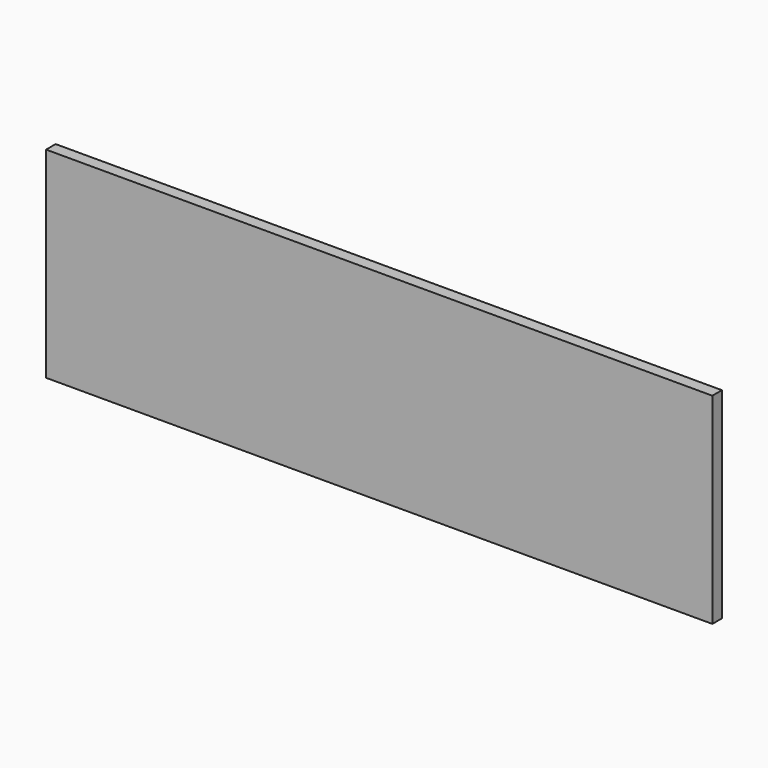
from build123d import *

# Parameters (mm, degrees)
F0_W     = 2118.36
F0_H     = 638.81
F1_DEPTH = 38.1
F2_W     = 2016.76
F2_H     = 537.21
F3_DEPTH = 31.75


with BuildPart() as f1:
    # F0 (on Front) → F1 (new body)
    with BuildSketch(Plane.XZ):
        Rectangle(F0_W, F0_H)
    extrude(amount=F1_DEPTH)

    # F2 (on face) → F3 (cut)
    with BuildSketch(Plane(origin=(0, 0, 0), x_dir=(-1, 0, 0), z_dir=(0, 1, 0))):
        Rectangle(F2_W, F2_H)
    extrude(amount=-F3_DEPTH, mode=Mode.SUBTRACT)


solid = f1.part
